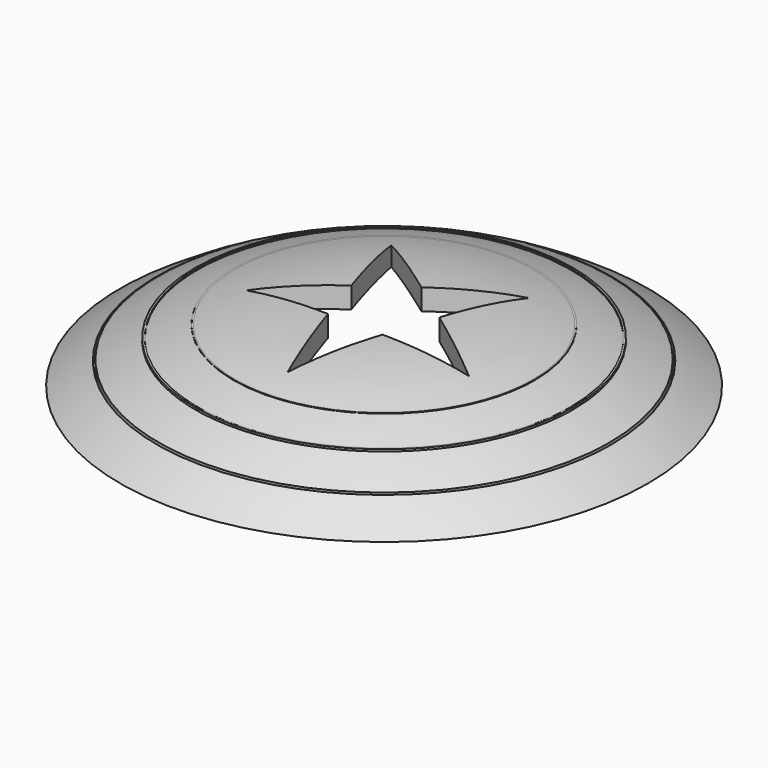
from build123d import *

# Parameters (mm, degrees)
F2_R          = 56.1140577881
F2_R_2        = 55.6140577881
F2_R_3        = 46.6140577881
F2_R_4        = 46.1140577881
F2_R_5        = 37.1140577881
F2_R_6        = 36.6140577881
F3_DEPTH      = 9.5
F5_DEPTH      = 25
F6_DEPTH      = 1
F6_DEPTH_BACK = 0.1
F7_DEPTH      = 1
F7_DEPTH_BACK = 0.1
F8_DEPTH      = 4
F8_DEPTH_BACK = 0.1


with BuildPart() as f1:
    # F0 (on Front) → F1 (revolve)
    with BuildSketch(Plane.XZ):
        with BuildLine():
            ThreePointArc((0, 11.3432640653), (33.2784883124, 9.813045826), (65.1140577881, 0))
            ThreePointArc((65.1140577881, 0), (34.048805546, 14.1150978382), (0, 16.3432640653))
            Line((0, 16.3432640653), (0, 11.3432640653))
        make_face()
    revolve(axis=Axis((0, 0, 13.8432640653), (0, 0, -1)))

    # F2 (on Top) → F3 (cut)
    with BuildSketch(Plane.XY):
        Circle(F2_R)
        Circle(F2_R_2, mode=Mode.SUBTRACT)
        Circle(F2_R_3)
        Circle(F2_R_4, mode=Mode.SUBTRACT)
        Circle(F2_R_5)
        Circle(F2_R_6, mode=Mode.SUBTRACT)
    extrude(amount=F3_DEPTH, mode=Mode.SUBTRACT)

    # F4 (on Top) → F5 (cut)
    with BuildSketch(Plane.XY):
        Polygon((10.8068530003, 3.5081479107), (17.2158019799, 23.2148378217), (0.2821548594, 11.1591122119), (-17.4778591988, 24.0698134718), (-10.7395194044, 3.3123512785), (-27.2822501823, -8.4650656994), (-6.8285321379, -8.7354487432), (-0.007996267, -29.7461160288), (6.7665810928, -8.9151660976), (28.2877665013, -9.1996602714), align=None)
    extrude(amount=F5_DEPTH, mode=Mode.SUBTRACT)

    # F6 (add, two sides): a face of the model
    f6_faces = [f1.faces().sort_by_distance(p)[0] for p in [
        (-37.0090833803, 0, 9.5),
    ]]
    extrude(f6_faces, amount=-F6_DEPTH)
    extrude(f6_faces, amount=F6_DEPTH_BACK)

    # F7 (add, two sides): a face of the model
    f7_faces = [f1.faces().sort_by_distance(p)[0] for p in [
        (-46.4822133226, 0, 9.5),
    ]]
    extrude(f7_faces, amount=-F7_DEPTH)
    extrude(f7_faces, amount=F7_DEPTH_BACK)

    # F8 (add, two sides): a face of the model
    f8_faces = [f1.faces().sort_by_distance(p)[0] for p in [
        (-37.0090833803, 0, 9.4),
    ]]
    extrude(f8_faces, amount=-F8_DEPTH)
    extrude(f8_faces, amount=F8_DEPTH_BACK)


solid = f1.part
